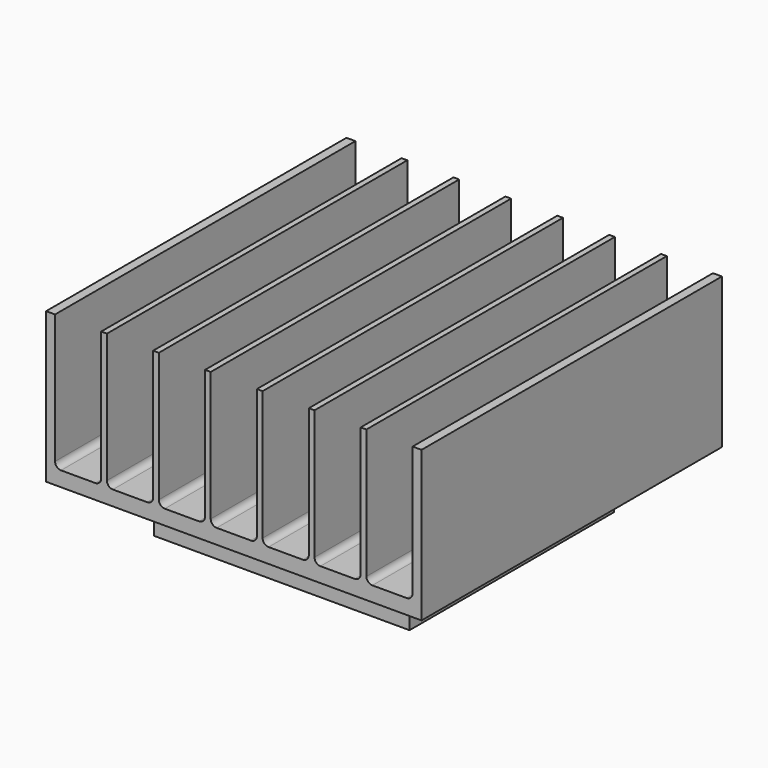
from build123d import *

# Parameters (mm, degrees)
F0_W     = 50
F0_H     = 20
F1_DEPTH = 50
F2_W     = 6.148629
F2_H     = 18.0188
F2_W_2   = 6.148628
F3_DEPTH = 50.001
F4_R     = 0.79375
F5_W     = 30
F5_H     = 30
F6_DEPTH = 2
F7_W     = 34
F7_H     = 34
F8_DEPTH = 5
F9_R     = 3


with BuildPart() as f1:
    # F0 (on Front) → F1 (new body)
    with BuildSketch(Plane.XZ):
        with Locations((25, 10)):
            Rectangle(F0_W, F0_H)
    extrude(amount=F1_DEPTH)

    # F2 (on face) → F3 (cut, through all)
    with BuildSketch(Plane.XZ.offset(50)):
        with Locations((4.268115, 10.9906)):
            Rectangle(F2_W, F2_H)
        with Locations((11.178743, 10.9906)):
            Rectangle(F2_W_2, F2_H)
        with Locations((18.089371, 10.9906)):
            Rectangle(F2_W, F2_H)
        with Locations((25, 10.9906)):
            Rectangle(F2_W_2, F2_H)
        with Locations((31.910629, 10.9906)):
            Rectangle(F2_W, F2_H)
        with Locations((38.821257, 10.9906)):
            Rectangle(F2_W_2, F2_H)
        with Locations((45.731885, 10.9906)):
            Rectangle(F2_W, F2_H)
    extrude(amount=-F3_DEPTH, mode=Mode.SUBTRACT)

    # F4
    f4_edges = [f1.edges().sort_by_distance(p)[0] for p in [
        (1.1938, -25, 1.9812),
        (7.342429, -25, 1.9812),
        (8.104429, -25, 1.9812),
        (14.253057, -25, 1.9812),
        (15.015057, -25, 1.9812),
        (21.163686, -25, 1.9812),
        (21.925686, -25, 1.9812),
        (28.074314, -25, 1.9812),
        (28.836314, -25, 1.9812),
        (34.984943, -25, 1.9812),
        (35.746943, -25, 1.9812),
        (41.895571, -25, 1.9812),
        (42.657571, -25, 1.9812),
        (48.8062, -25, 1.9812),
    ]]
    fillet(f4_edges, radius=F4_R)


with BuildPart() as f6:
    # F5 (on face) → F6 (new body)
    with BuildSketch(Plane(origin=(0, 0, 0), x_dir=(1, 0, 0), z_dir=(0, 0, -1))):
        with Locations((25, 25)):
            Rectangle(F5_W, F5_H)
    extrude(amount=F6_DEPTH)


with BuildPart() as f8:
    # F7 (on face) → F8 (new body)
    with BuildSketch(Plane(origin=(0, 0, -2), x_dir=(1, 0, 0), z_dir=(0, 0, -1))):
        with Locations((25, 25)):
            Rectangle(F7_W, F7_H)
    extrude(amount=F8_DEPTH)

    # F9
    f9_edges = [f8.edges().sort_by_distance(p)[0] for p in [
        (8, -25, -2),
        (25, -42, -2),
        (25, -8, -2),
        (42, -25, -2),
    ]]
    fillet(f9_edges, radius=F9_R)


solid = Compound([f1.part, f6.part, f8.part])
